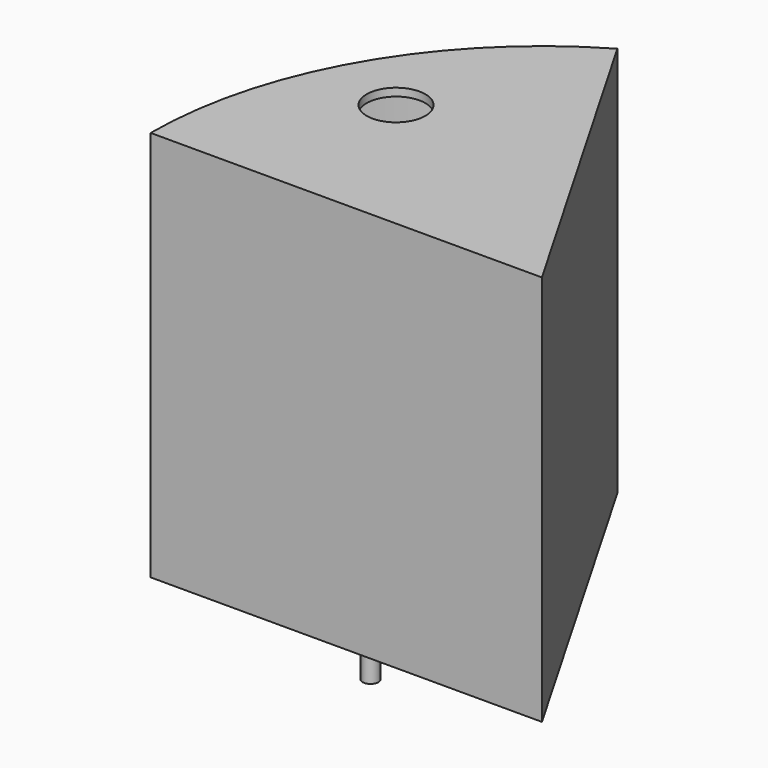
from build123d import *

# Parameters (mm, degrees)
F1_DEPTH  = 50
F3_START  = 1
F3_DEPTH  = 48
F4_R      = 2.5
F5_DEPTH  = 3
F6_R      = 4
F7_DEPTH  = 5
F8_R      = 1
F9_DEPTH  = 10
F10_R     = 3.75
F11_DEPTH = 2


with BuildPart() as f1:
    # F0 (on Top) → F1 (new body)
    with BuildSketch(Plane.XY):
        with BuildLine():
            Line((0, 0), (-25, 43.3012701892))
            ThreePointArc((-25, 43.3012701892), (-43.3012701892, 25), (-50, 0))
            Line((-50, 0), (0, 0))
        make_face()
    extrude(amount=F1_DEPTH)

    # F2 (on Top) → F3 (cut)
    with BuildSketch(Plane.XY.offset(F3_START)):
        with BuildLine():
            Line((-1.7320508076, 1), (-25.3609228316, 41.9264068712))
            ThreePointArc((-25.3609228316, 41.9264068712), (-42.4352447854, 24.5), (-48.9897948557, 1))
            Line((-48.9897948557, 1), (-1.7320508076, 1))
        make_face()
    extrude(amount=F3_DEPTH, mode=Mode.SUBTRACT)

    # F4 (on face) → F5 (join)
    with BuildSketch(Plane(origin=(0, 0, 0), x_dir=(1, 0, 0), z_dir=(0, 0, -1))):
        with Locations((-40.7031939779, -23.5)):
            Circle(F4_R)
    extrude(amount=F5_DEPTH)

    # F6 (on face) → F7 (join)
    with BuildSketch(Plane(origin=(0, 0, -3), x_dir=(1, 0, 0), z_dir=(0, 0, -1))):
        with Locations((-40.7031939779, -23.5)):
            Circle(F6_R)
    extrude(amount=F7_DEPTH)

    # F8 (on face) → F9 (join)
    with BuildSketch(Plane(origin=(0, 0, -8), x_dir=(1, 0, 0), z_dir=(0, 0, -1))):
        with Locations((-40.7031939779, -23.5)):
            Circle(F8_R)
    extrude(amount=F9_DEPTH)

    # F10 (on face) → F11 (cut)
    with BuildSketch(Plane.XY.offset(50)):
        with Locations((-34.6410161514, 20)):
            Circle(F10_R)
    extrude(amount=-F11_DEPTH, mode=Mode.SUBTRACT)


solid = f1.part
